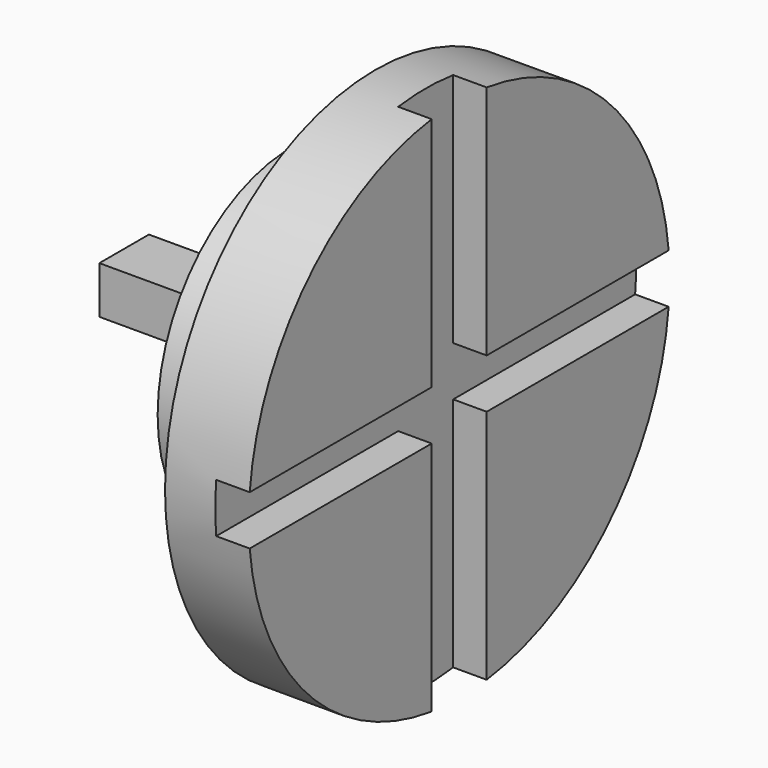
from build123d import *

# Parameters (mm, degrees)
F0_R     = 2.54
F1_DEPTH = 1.27
F2_R     = 3.9875638358
F3_DEPTH = 1.27
F4_W     = 0.9389580227
F4_H     = 0.7173512131
F5_DEPTH = 2.54
F6_W     = 1.0421685874
F6_H     = 0.7513510063
F7_DEPTH = 0.508


with BuildPart() as f1:
    # F0 (on Right) → F1 (new body)
    with BuildSketch(Plane.YZ):
        with Locations((-2.8381347656, 0.8016005158)):
            Circle(F0_R)
    extrude(amount=F1_DEPTH)

    # F2 (on face) → F3 (join)
    with BuildSketch(Plane.YZ.offset(1.27)):
        with Locations((-2.8381347656, 0.8016005158)):
            Circle(F2_R)
    extrude(amount=F3_DEPTH)

    # F4 (on face) → F5 (join)
    with BuildSketch(Plane(origin=(0, 0, 0), x_dir=(0, -1, 0), z_dir=(-1, 0, 0))):
        with Locations((2.8381347656, 0.8016005158)):
            Rectangle(F4_W, F4_H)
    extrude(amount=F5_DEPTH)

    # F6 (on face) → F7 (cut)
    with BuildSketch(Plane.YZ.offset(2.54)):
        with BuildLine():
            Line((-3.3592190593, 1.177276019), (-2.3170504719, 1.177276019))
            Line((-2.3170504719, 1.177276019), (-2.3170504719, 4.7549707873))
            ThreePointArc((-2.3170504719, 4.7549707873), (-2.8381347656, 4.7891643516), (-3.3592190593, 4.7549707873))
            Line((-3.3592190593, 4.7549707873), (-3.3592190593, 1.177276019))
        make_face()
        with BuildLine():
            Line((-2.3170504719, 1.177276019), (-2.3170504719, 0.4259250127))
            Line((-2.3170504719, 0.4259250127), (1.1316930972, 0.4259250127))
            ThreePointArc((1.1316930972, 0.4259250127), (1.1449926089, 0.613553548), (1.1494290701, 0.8016005158))
            ThreePointArc((1.1494290701, 0.8016005158), (1.1449926089, 0.9896474837), (1.1316930972, 1.177276019))
            Line((1.1316930972, 1.177276019), (-2.3170504719, 1.177276019))
        make_face()
        with BuildLine():
            ThreePointArc((-3.3592190593, -3.1517697556), (-2.8381347656, -3.1859633199), (-2.3170504719, -3.1517697556))
            Line((-2.3170504719, -3.1517697556), (-2.3170504719, 0.4259250127))
            Line((-2.3170504719, 0.4259250127), (-3.3592190593, 0.4259250127))
            Line((-3.3592190593, 0.4259250127), (-3.3592190593, -3.1517697556))
        make_face()
        with BuildLine():
            Line((-6.8079626285, 0.4259250127), (-3.3592190593, 0.4259250127))
            Line((-3.3592190593, 0.4259250127), (-3.3592190593, 1.177276019))
            Line((-3.3592190593, 1.177276019), (-6.8079626285, 1.177276019))
            ThreePointArc((-6.8079626285, 1.177276019), (-6.8256986014, 0.8016005158), (-6.8079626285, 0.4259250127))
        make_face()
        with Locations((-2.8381347656, 0.8016005158)):
            Rectangle(F6_W, F6_H)
    extrude(amount=-F7_DEPTH, mode=Mode.SUBTRACT)


solid = f1.part
